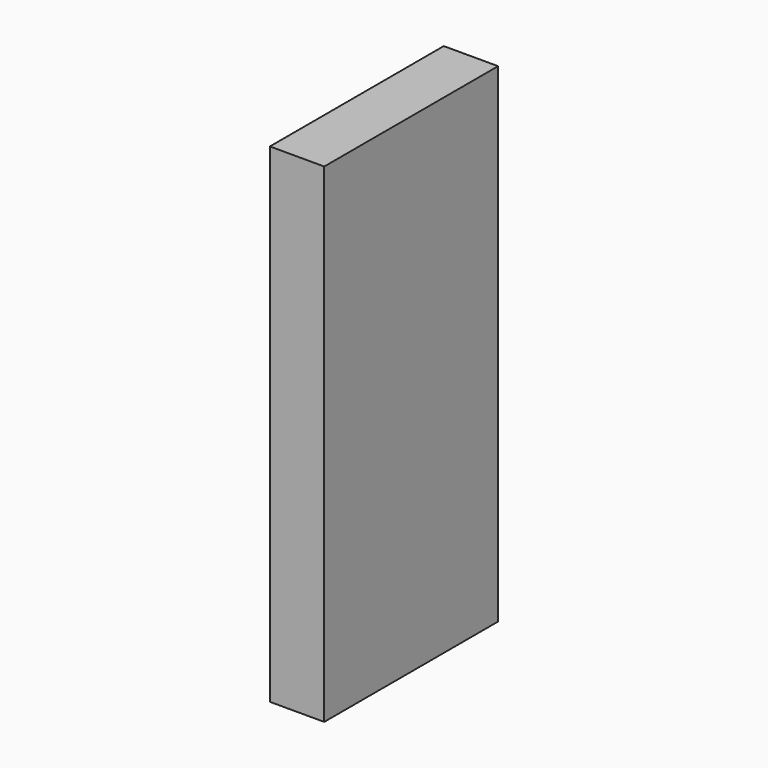
from build123d import *

# Parameters (mm, degrees)
SKETCH_W  = 10
SKETCH_H  = 40
PAD_DEPTH = 90


with BuildPart() as part:
    # Sketch → Pad (new body)
    with BuildSketch(Plane.XY):
        with Locations((5, 20)):
            Rectangle(SKETCH_W, SKETCH_H)
    extrude(amount=PAD_DEPTH)


solid = part.part
